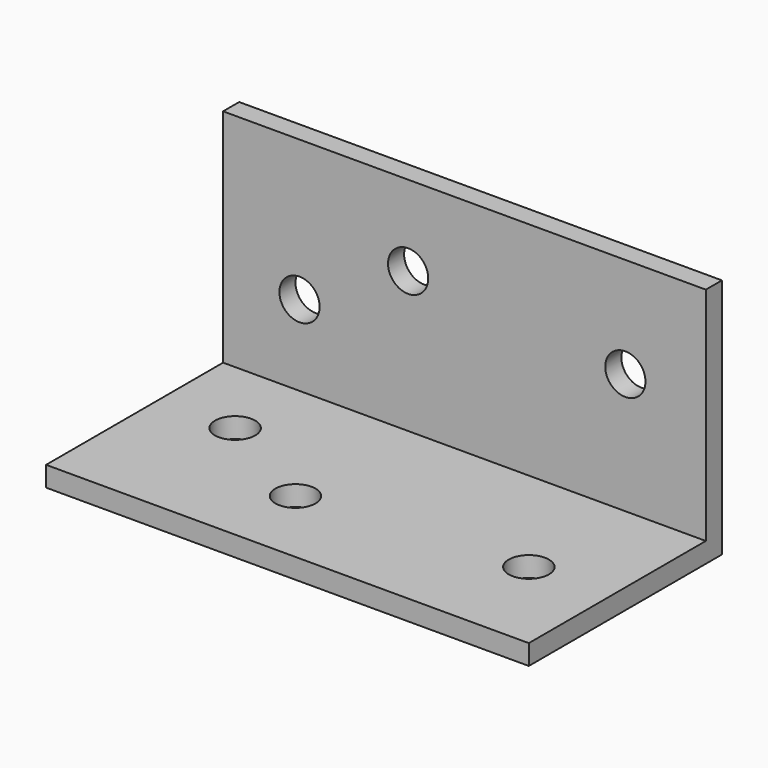
from build123d import *

# Parameters (mm, degrees)
F1_DEPTH   = 120
F4_D       = 10
F4_ON_F3_D = 10
F6_D       = 10
F8_D       = 10


with BuildPart() as f1:
    # F0 (on Right) → F1 (new body)
    with BuildSketch(Plane.YZ):
        Polygon((0, 5), (0, 0), (60, 0), (60, 60), (55, 60), (55, 5), align=None)
    extrude(amount=F1_DEPTH)

    # F4 (through all)
    with Locations(Plane.XY.offset(5)):
        with Locations((46, 20), (19, 35)):
            Hole(F4_D / 2)

    # F4 on F3 (through all)
    with Locations(Plane.XZ.offset(-55)):
        with Locations((46, 40), (19, 25)):
            Hole(F4_ON_F3_D / 2)

    # F6 (through all)
    with Locations(Plane.XZ.offset(-55)):
        with Locations((100, 35)):
            Hole(F6_D / 2)

    # F8 (through all)
    with Locations(Plane.XY.offset(5)):
        with Locations((100, 25)):
            Hole(F8_D / 2)


solid = f1.part
